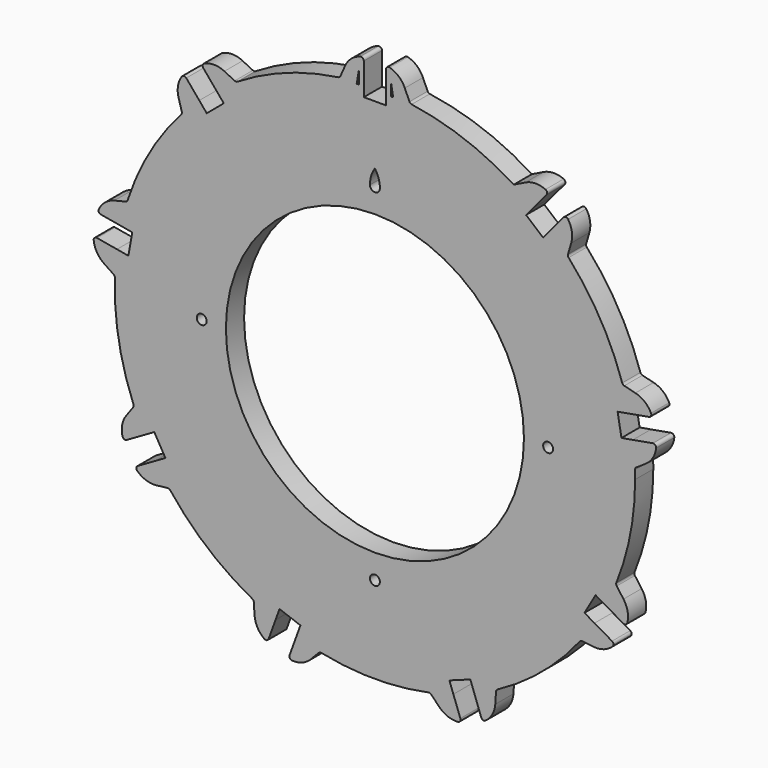
from build123d import *

# Parameters (mm, degrees)
F0_R     = 1.3335
F0_R_2   = 40.005
F1_DEPTH = 6.096
F3_DEPTH = 6.096
F4_R     = 0.762


with BuildPart() as f1:
    # F0 (on Front) → F1 (new body)
    with BuildSketch(Plane.XZ):
        with BuildLine():
            ThreePointArc((64.655929, -26.431672), (68.539183, -13.46859), (69.85, 0))
            ThreePointArc((69.85, 0), (69.836715, 1.362268), (69.796864, 2.724017))
            ThreePointArc((69.796864, 2.724017), (69.595439, 5.957964), (69.244255, 9.17909))
            Line((69.244255, 9.17909), (66.18031, 8.638834))
            Line((66.18031, 8.638834), (65.143804, 14.517151))
            Line((65.143804, 14.517151), (68.207749, 15.057407))
            ThreePointArc((68.207749, 15.057407), (67.436064, 18.204387), (66.519267, 21.312194))
            ThreePointArc((66.519267, 21.312194), (60.491874, 34.925), (51.716535, 46.951278))
            ThreePointArc((51.716535, 46.951278), (49.483494, 49.299151), (47.143971, 51.54094))
            Line((47.143971, 51.54094), (45.144124, 49.157614))
            Line((45.144124, 49.157614), (40.571604, 52.994413))
            Line((40.571604, 52.994413), (42.571452, 55.377739))
            ThreePointArc((42.571452, 55.377739), (39.957468, 57.292436), (37.2575, 59.083849))
            ThreePointArc((37.2575, 59.083849), (23.890107, 65.63753), (9.437465, 69.209513))
            ThreePointArc((9.437465, 69.209513), (6.217672, 69.572718), (2.9845, 69.786211))
            Line((2.9845, 69.786211), (2.9845, 66.675))
            Line((2.9845, 66.675), (-2.9845, 66.675))
            Line((-2.9845, 66.675), (-2.9845, 69.786211))
            ThreePointArc((-2.9845, 69.786211), (-6.217672, 69.572718), (-9.437465, 69.209513))
            ThreePointArc((-9.437465, 69.209513), (-23.890107, 65.63753), (-37.2575, 59.083849))
            ThreePointArc((-37.2575, 59.083849), (-39.957468, 57.292436), (-42.571452, 55.377739))
            Line((-42.571452, 55.377739), (-40.571604, 52.994413))
            Line((-40.571604, 52.994413), (-45.144124, 49.157614))
            Line((-45.144124, 49.157614), (-47.143971, 51.54094))
            ThreePointArc((-47.143971, 51.54094), (-49.483494, 49.299151), (-51.716535, 46.951278))
            ThreePointArc((-51.716535, 46.951278), (-60.491874, 34.925), (-66.519267, 21.312194))
            ThreePointArc((-66.519267, 21.312194), (-67.436064, 18.204387), (-68.207749, 15.057407))
            Line((-68.207749, 15.057407), (-65.143804, 14.517151))
            Line((-65.143804, 14.517151), (-66.18031, 8.638834))
            Line((-66.18031, 8.638834), (-69.244255, 9.17909))
            ThreePointArc((-69.244255, 9.17909), (-69.595439, 5.957964), (-69.796864, 2.724017))
            ThreePointArc((-69.796864, 2.724017), (-68.788822, -12.129325), (-64.655929, -26.431672))
            ThreePointArc((-64.655929, -26.431672), (-63.360577, -29.401697), (-61.928882, -32.308453))
            Line((-61.928882, -32.308453), (-59.234494, -30.752847))
            Line((-59.234494, -30.752847), (-56.249994, -35.922153))
            Line((-56.249994, -35.922153), (-58.944382, -37.477758))
            ThreePointArc((-58.944382, -37.477758), (-57.142905, -40.171021), (-55.218464, -42.777841))
            ThreePointArc((-55.218464, -42.777841), (-44.898715, -53.508204), (-32.539364, -61.807866))
            ThreePointArc((-32.539364, -61.807866), (-29.637972, -63.2504), (-26.672803, -64.556828))
            Line((-26.672803, -64.556828), (-25.608706, -61.633246))
            Line((-25.608706, -61.633246), (-19.99968, -63.674765))
            Line((-19.99968, -63.674765), (-21.063777, -66.598347))
            ThreePointArc((-21.063777, -66.598347), (-17.95257, -67.503539), (-14.802732, -68.263472))
            ThreePointArc((-14.802732, -68.263472), (0, -69.85), (14.802732, -68.263472))
            ThreePointArc((14.802732, -68.263472), (17.95257, -67.503539), (21.063777, -66.598347))
            Line((21.063777, -66.598347), (19.99968, -63.674765))
            Line((19.99968, -63.674765), (25.608706, -61.633246))
            Line((25.608706, -61.633246), (26.672803, -64.556828))
            ThreePointArc((26.672803, -64.556828), (29.637972, -63.2504), (32.539364, -61.807866))
            ThreePointArc((32.539364, -61.807866), (44.898715, -53.508204), (55.218464, -42.777841))
            ThreePointArc((55.218464, -42.777841), (57.142905, -40.171021), (58.944382, -37.477758))
            Line((58.944382, -37.477758), (56.249994, -35.922153))
            Line((56.249994, -35.922153), (59.234494, -30.752847))
            Line((59.234494, -30.752847), (61.928882, -32.308453))
            ThreePointArc((61.928882, -32.308453), (63.360577, -29.401697), (64.655929, -26.431672))
        make_face()
        with Locations((0, -46.4947)):
            Circle(F0_R, mode=Mode.SUBTRACT)
        with Locations((-46.4947, 0)):
            Circle(F0_R, mode=Mode.SUBTRACT)
        Circle(F0_R_2, mode=Mode.SUBTRACT)
        with Locations((46.4947, 0)):
            Circle(F0_R, mode=Mode.SUBTRACT)
        with BuildLine():
            ThreePointArc((1.333363, 46.475577), (0, 45.1612), (-1.333363, 46.475577))
            ThreePointArc((-1.333363, 46.475577), (-1.008328, 48.74313), (0, 50.8))
            ThreePointArc((0, 50.8), (1.008328, 48.74313), (1.333363, 46.475577))
        make_face(mode=Mode.SUBTRACT)
        with BuildLine():
            ThreePointArc((-42.571452, 55.377739), (-39.957468, 57.292436), (-37.2575, 59.083849))
            Line((-37.2575, 59.083849), (-40.402969, 60.629603))
            ThreePointArc((-40.402969, 60.629603), (-43.582924, 61.269233), (-46.663904, 60.254933))
            Line((-46.663904, 60.254933), (-42.571452, 55.377739))
        make_face()
        with BuildLine():
            ThreePointArc((-51.716535, 46.951278), (-49.483494, 49.299151), (-47.143971, 51.54094))
            Line((-47.143971, 51.54094), (-51.236423, 56.418134))
            ThreePointArc((-51.236423, 56.418134), (-52.77032, 53.560092), (-52.692602, 50.317377))
            Line((-52.692602, 50.317377), (-51.716535, 46.951278))
        make_face()
        with BuildLine():
            ThreePointArc((-9.437465, 69.209513), (-6.217672, 69.572718), (-2.9845, 69.786211))
            Line((-2.9845, 69.786211), (-2.9845, 76.152936))
            ThreePointArc((-2.9845, 76.152936), (-5.996647, 74.949519), (-8.021488, 72.415499))
            Line((-8.021488, 72.415499), (-9.437465, 69.209513))
        make_face()
        with BuildLine():
            ThreePointArc((2.9845, 69.786211), (6.217672, 69.572718), (9.437465, 69.209513))
            Line((9.437465, 69.209513), (8.021488, 72.415499))
            ThreePointArc((8.021488, 72.415499), (5.996647, 74.949519), (2.9845, 76.152936))
            Line((2.9845, 76.152936), (2.9845, 69.786211))
        make_face()
        with BuildLine():
            ThreePointArc((37.2575, 59.083849), (39.957468, 57.292436), (42.571452, 55.377739))
            Line((42.571452, 55.377739), (46.663904, 60.254933))
            ThreePointArc((46.663904, 60.254933), (43.582924, 61.269233), (40.402969, 60.629603))
            Line((40.402969, 60.629603), (37.2575, 59.083849))
        make_face()
        with BuildLine():
            ThreePointArc((47.143971, 51.54094), (49.483494, 49.299151), (51.716535, 46.951278))
            Line((51.716535, 46.951278), (52.692602, 50.317377))
            ThreePointArc((52.692602, 50.317377), (52.77032, 53.560092), (51.236423, 56.418134))
            Line((51.236423, 56.418134), (47.143971, 51.54094))
        make_face()
        with BuildLine():
            ThreePointArc((66.519267, 21.312194), (67.436064, 18.204387), (68.207749, 15.057407))
            Line((68.207749, 15.057407), (74.477748, 16.162977))
            ThreePointArc((74.477748, 16.162977), (72.769561, 18.920392), (69.922428, 20.474443))
            Line((69.922428, 20.474443), (66.519267, 21.312194))
        make_face()
        with BuildLine():
            ThreePointArc((69.244255, 9.17909), (69.595439, 5.957964), (69.796864, 2.724017))
            Line((69.796864, 2.724017), (72.708261, 4.675196))
            ThreePointArc((72.708261, 4.675196), (74.852174, 7.109303), (75.514254, 10.28466))
            Line((75.514254, 10.28466), (69.244255, 9.17909))
        make_face()
        with BuildLine():
            Line((66.724405, -29.260937), (64.655929, -26.431672))
            ThreePointArc((64.655929, -26.431672), (63.360577, -29.401697), (61.928882, -32.308453))
            Line((61.928882, -32.308453), (67.442627, -35.491815))
            ThreePointArc((67.442627, -35.491815), (67.906511, -32.281511), (66.724405, -29.260937))
        make_face()
        with BuildLine():
            Line((64.458127, -40.661121), (58.944382, -37.477758))
            ThreePointArc((58.944382, -37.477758), (57.142905, -40.171021), (55.218464, -42.777841))
            Line((55.218464, -42.777841), (58.702917, -43.154562))
            ThreePointArc((58.702917, -43.154562), (61.909864, -42.668008), (64.458127, -40.661121))
        make_face()
        with BuildLine():
            Line((23.241325, -72.581111), (21.063777, -66.598347))
            ThreePointArc((21.063777, -66.598347), (17.95257, -67.503539), (14.802732, -68.263472))
            Line((14.802732, -68.263472), (17.229826, -70.79182))
            ThreePointArc((17.229826, -70.79182), (19.99924, -72.480484), (23.241325, -72.581111))
        make_face()
        with BuildLine():
            Line((32.305292, -65.304799), (32.539364, -61.807866))
            ThreePointArc((32.539364, -61.807866), (29.637972, -63.2504), (26.672803, -64.556828))
            Line((26.672803, -64.556828), (28.850351, -70.539593))
            ThreePointArc((28.850351, -70.539593), (31.26925, -68.378536), (32.305292, -65.304799))
        make_face()
        with BuildLine():
            Line((-28.850351, -70.539593), (-26.672803, -64.556828))
            ThreePointArc((-26.672803, -64.556828), (-29.637972, -63.2504), (-32.539364, -61.807866))
            Line((-32.539364, -61.807866), (-32.305292, -65.304799))
            ThreePointArc((-32.305292, -65.304799), (-31.26925, -68.378536), (-28.850351, -70.539593))
        make_face()
        with BuildLine():
            Line((-17.229826, -70.79182), (-14.802732, -68.263472))
            ThreePointArc((-14.802732, -68.263472), (-17.95257, -67.503539), (-21.063777, -66.598347))
            Line((-21.063777, -66.598347), (-23.241325, -72.581111))
            ThreePointArc((-23.241325, -72.581111), (-19.99924, -72.480484), (-17.229826, -70.79182))
        make_face()
        with BuildLine():
            Line((-58.702917, -43.154562), (-55.218464, -42.777841))
            ThreePointArc((-55.218464, -42.777841), (-57.142905, -40.171021), (-58.944382, -37.477758))
            Line((-58.944382, -37.477758), (-64.458127, -40.661121))
            ThreePointArc((-64.458127, -40.661121), (-61.909864, -42.668008), (-58.702917, -43.154562))
        make_face()
        with BuildLine():
            Line((-67.442627, -35.491815), (-61.928882, -32.308453))
            ThreePointArc((-61.928882, -32.308453), (-63.360577, -29.401697), (-64.655929, -26.431672))
            Line((-64.655929, -26.431672), (-66.724405, -29.260937))
            ThreePointArc((-66.724405, -29.260937), (-67.906511, -32.281511), (-67.442627, -35.491815))
        make_face()
        with BuildLine():
            Line((-72.708261, 4.675196), (-69.796864, 2.724017))
            ThreePointArc((-69.796864, 2.724017), (-69.595439, 5.957964), (-69.244255, 9.17909))
            Line((-69.244255, 9.17909), (-75.514254, 10.28466))
            ThreePointArc((-75.514254, 10.28466), (-74.852174, 7.109303), (-72.708261, 4.675196))
        make_face()
        with BuildLine():
            ThreePointArc((-68.207749, 15.057407), (-67.436064, 18.204387), (-66.519267, 21.312194))
            Line((-66.519267, 21.312194), (-69.922428, 20.474443))
            ThreePointArc((-69.922428, 20.474443), (-72.769561, 18.920392), (-74.477748, 16.162977))
            Line((-74.477748, 16.162977), (-68.207749, 15.057407))
        make_face()
    extrude(amount=F1_DEPTH)

    # F2 (on face) → F3 (cut, through all)
    with BuildSketch(Plane.XZ.offset(6.096)):
        Polygon((-4.2545, 69.209513), (-4.2545, 72.983703), (-4.8895, 69.209513), align=None)
        Polygon((4.8895, 69.209513), (4.2545, 72.983703), (4.2545, 69.209513), align=None)
    extrude(amount=-F3_DEPTH, mode=Mode.SUBTRACT)

    # F4
    f4_edges = [f1.edges().sort_by_distance(p)[0] for p in [
        (-2.9845, -3.048, 76.152936),
        (2.9845, -3.048, 76.152936),
        (46.663904, -3.048, 60.254933),
        (51.236423, -3.048, 56.418134),
        (9.437465, -3.048, 69.209513),
        (-9.437465, -3.048, 69.209513),
        (-46.663904, -3.048, 60.254933),
        (-37.2575, -3.048, 59.083849),
        (-51.236423, -3.048, 56.418134),
        (-51.716535, -3.048, 46.951278),
        (-66.519267, -3.048, 21.312194),
        (-74.477748, -3.048, 16.162977),
        (-75.514254, -3.048, 10.28466),
        (-69.796864, -3.048, 2.724017),
        (-64.655929, -3.048, -26.431672),
        (-67.442627, -3.048, -35.491815),
        (-64.458127, -3.048, -40.661121),
        (-55.218464, -3.048, -42.777841),
        (-32.539364, -3.048, -61.807866),
        (-28.850351, -3.048, -70.539593),
        (-23.241325, -3.048, -72.581111),
        (-14.802732, -3.048, -68.263472),
        (14.802732, -3.048, -68.263472),
        (23.241325, -3.048, -72.581111),
        (28.850351, -3.048, -70.539593),
        (32.539364, -3.048, -61.807866),
        (64.458127, -3.048, -40.661121),
        (55.218464, -3.048, -42.777841),
        (67.442627, -3.048, -35.491815),
        (64.655929, -3.048, -26.431672),
        (69.796864, -3.048, 2.724017),
        (75.514254, -3.048, 10.28466),
        (74.477748, -3.048, 16.162977),
        (66.519267, -3.048, 21.312194),
        (51.716535, -3.048, 46.951278),
    ]]
    fillet(f4_edges, radius=F4_R)


solid = f1.part
